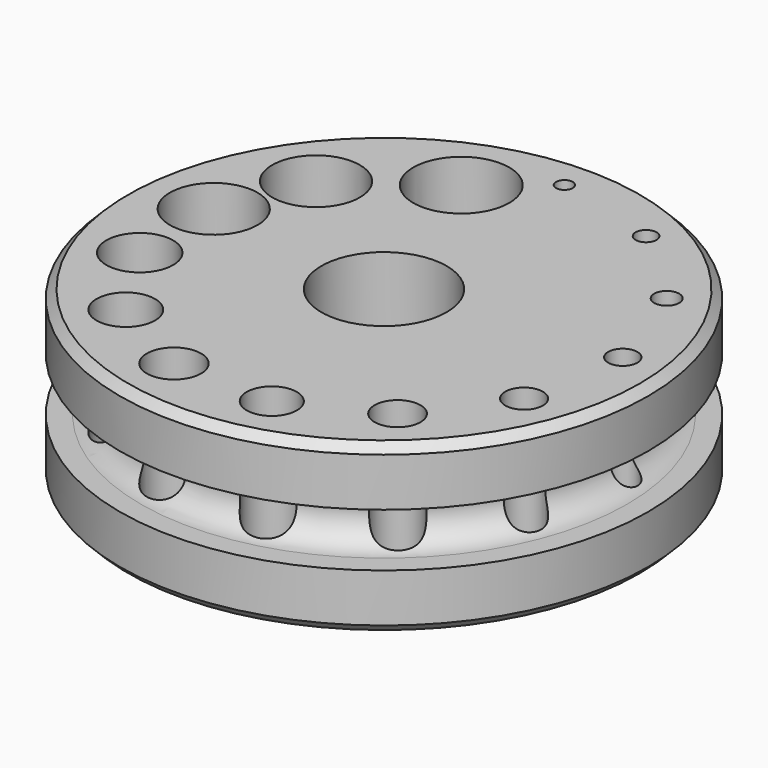
from build123d import *

# Parameters (mm, degrees)
F2_R     = 1
F2_R_2   = 1.25
F2_R_3   = 1.5
F2_R_4   = 1.75
F2_R_5   = 2.25
F2_R_6   = 2.75
F2_R_7   = 3
F2_R_8   = 3.25
F2_R_9   = 3.5
F2_R_10  = 4
F2_R_11  = 5.25
F2_R_12  = 7.5
F2_R_13  = 5.75
F3_DEPTH = 25
F4_SIZE  = 1
F5_DEPTH = 20.0010001


with BuildPart() as f1:
    # F0 (on Front) → F1 (revolve)
    with BuildSketch(Plane.XZ):
        with BuildLine():
            Line((0, 20), (0, 0))
            Line((0, 0), (31.625, 0))
            Line((31.625, 0), (31.625, 6.8))
            Line((31.625, 6.8), (29.125, 6.8))
            ThreePointArc((29.125, 6.8), (25.925, 10), (29.125, 13.2))
            Line((29.125, 13.2), (31.625, 13.2))
            Line((31.625, 13.2), (31.625, 20))
            Line((31.625, 20), (0, 20))
        make_face()
    revolve(axis=Axis((0, 0, 10), (0, 0, 1)))

    # F2 (on face) → F3 (cut)
    with BuildSketch(Plane.XY.offset(20)):
        with Locations((0, 27)):
            Circle(F2_R)
        with Locations((12.4313448522, 23.6859486862)):
            Circle(F2_R_2)
        with Locations((21.8090724462, 15.0537157884)):
            Circle(F2_R_3)
        with Locations((26.0586079451, 3.1640878567)):
            Circle(F2_R_4)
        with Locations((24.0766682491, -9.1310758413)):
            Circle(F2_R_5)
        with Locations((16.7438471206, -18.8998963913)):
            Circle(F2_R_6)
        with Locations((5.9828916072, -24.2735454357)):
            Circle(F2_R_7)
        with Locations((-5.9230626911, -24.0308099813)):
            Circle(F2_R_8)
        with Locations((-16.2465051269, -18.3385133302)):
            Circle(F2_R_9)
        with Locations((-22.4403898244, -8.510517289)):
            Circle(F2_R_10)
        with Locations((-22.5841268857, 2.7422094758)):
            Circle(F2_R_11)
        Circle(F2_R_12)
        with Locations((-18.6085272046, 13.0875977656)):
            Circle(F2_R_11)
        with Locations((-7.5038864206, 20.946460049)):
            Circle(F2_R_13)
    extrude(amount=-F3_DEPTH, mode=Mode.SUBTRACT)

    # F4
    f4_edges = [f1.edges().sort_by_distance(p)[0] for p in [
        (-31.625, 0, 20),
        (-31.625, 0, 0),
    ]]
    chamfer(f4_edges, length=F4_SIZE)

    # F2 (on face) → F5 (cut, through all)
    with BuildSketch(Plane.XY.offset(20)):
        with Locations((0, 27)):
            Circle(F2_R)
        with Locations((12.4313448522, 23.6859486862)):
            Circle(F2_R_2)
        with Locations((21.8090724462, 15.0537157884)):
            Circle(F2_R_3)
        with Locations((26.0586079451, 3.1640878567)):
            Circle(F2_R_4)
        with Locations((24.0766682491, -9.1310758413)):
            Circle(F2_R_5)
        with Locations((16.7438471206, -18.8998963913)):
            Circle(F2_R_6)
        with Locations((5.9828916072, -24.2735454357)):
            Circle(F2_R_7)
        with Locations((-5.9230626911, -24.0308099813)):
            Circle(F2_R_8)
        with Locations((-16.2465051269, -18.3385133302)):
            Circle(F2_R_9)
        with Locations((-22.4403898244, -8.510517289)):
            Circle(F2_R_10)
        with Locations((-22.5841268857, 2.7422094758)):
            Circle(F2_R_11)
        Circle(F2_R_12)
        with Locations((-18.6085272046, 13.0875977656)):
            Circle(F2_R_11)
        with Locations((-7.5038864206, 20.946460049)):
            Circle(F2_R_13)
    extrude(amount=-F5_DEPTH, mode=Mode.SUBTRACT)


solid = f1.part
